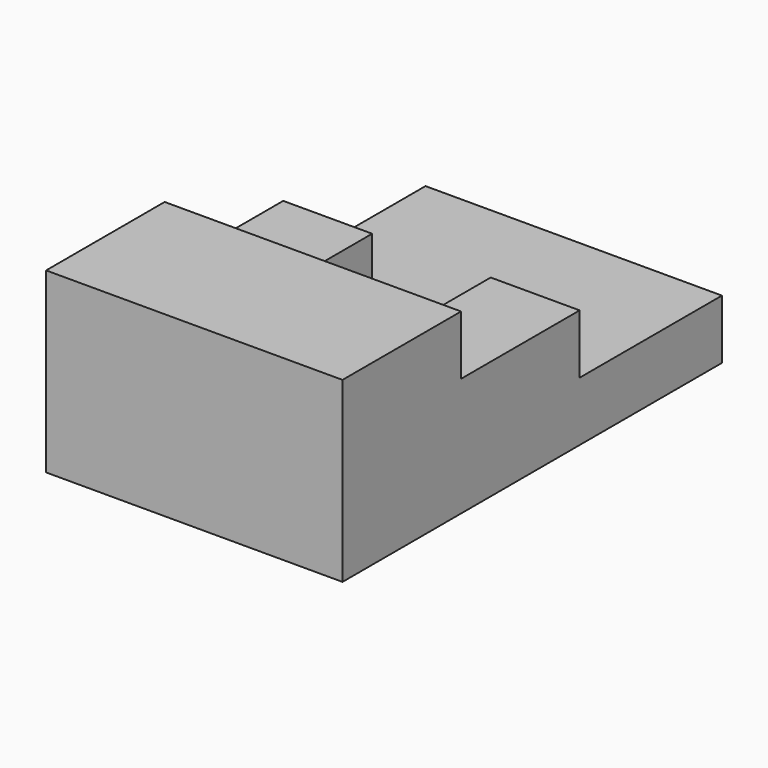
from build123d import *

# Parameters (mm, degrees)
F0_W     = 63.5
F0_H     = 101.6
F1_DEPTH = 12.7
F2_W     = 25.4
F2_H     = 31.75
F3_DEPTH = 12.7
F5_DEPTH = 12.7


with BuildPart() as f1:
    # F0 (on Top) → F1 (new body)
    with BuildSketch(Plane.XY):
        Rectangle(F0_W, F0_H)
    extrude(amount=F1_DEPTH)

    # F2 (on face) → F3 (join)
    with BuildSketch(Plane.XY.offset(12.7)):
        Polygon((31.75, -50.8), (31.75, 12.7), (12.7, 12.7), (12.7, -19.05), (12.7, -50.8), align=None)
        Polygon((-12.7, -50.8), (-12.7, -19.05), (-12.7, 12.7), (-31.75, 12.7), (-31.75, -50.8), align=None)
        with Locations((0, -34.925)):
            Rectangle(F2_W, F2_H)
    extrude(amount=F3_DEPTH)

    # F4 (on face) → F5 (join)
    with BuildSketch(Plane.XY.offset(25.4)):
        Polygon((-31.75, -50.8), (31.75, -50.8), (31.75, -19.05), (12.7, -19.05), (-12.7, -19.05), (-31.75, -19.05), align=None)
    extrude(amount=F5_DEPTH)


solid = f1.part
